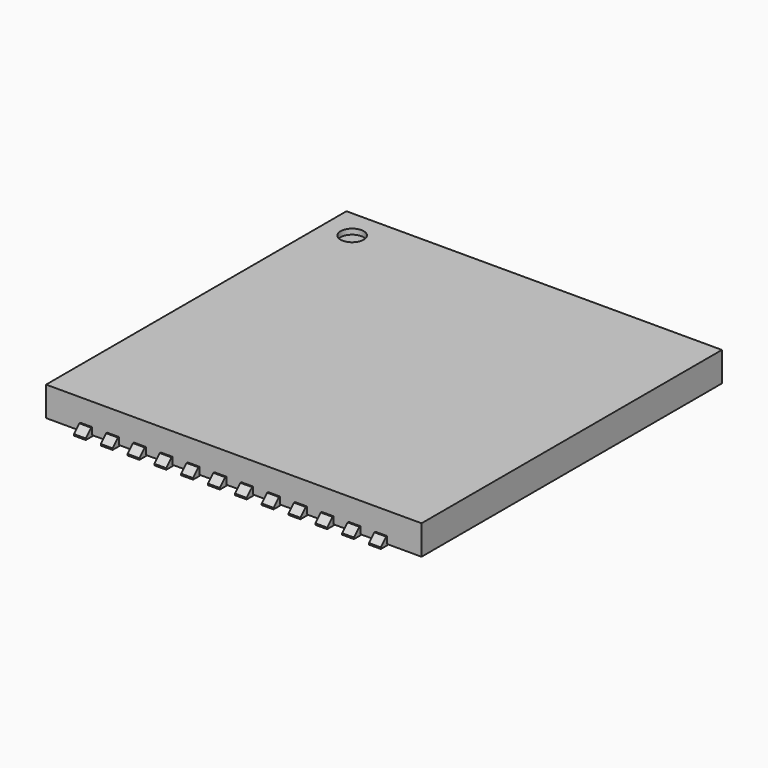
from build123d import *

# Parameters (mm, degrees)
SKETCH_W                = 7
SKETCH_H                = 7
PAD_DEPTH               = 0.55
SKETCH001_R             = 0.216067
POCKET_DEPTH            = 0.1
PAD001_DEPTH            = 0.11
ARRAY_Y_COUNT           = 12
ARRAY_Y_PITCH           = 0.5
BODY002_PLACEMENT_ANGLE = 90


with BuildPart() as body:
    # Sketch → Pad (new body)
    with BuildSketch(Plane.XY):
        Rectangle(SKETCH_W, SKETCH_H)
    extrude(amount=PAD_DEPTH)

    # Sketch001 (on Face6 of Pad) → Pocket (cut)
    with BuildSketch(Plane.XY.offset(0.55)):
        with Locations((-2.958234, 2.955425)):
            Circle(SKETCH001_R)
    extrude(amount=-POCKET_DEPTH, mode=Mode.SUBTRACT)


with BuildPart() as body_1:
    # Body placement: moved
    add(body.part.moved(Location((0, 0, 0.02))))


with BuildPart() as body002:
    # Sketch002 → Pad001 (new body, symmetric)
    with BuildSketch(Plane.XZ):
        Polygon((-3.65, 0), (-3.65, 0.027), (-3.525, 0.152), (3.525, 0.152), (3.65, 0.027), (3.65, 0), (3.1, 0), (3.1, 0.08), (-3.1, 0.08), (-3.1, 0), align=None)
    extrude(amount=PAD001_DEPTH, both=True)


with BuildPart() as body002_1:
    # Body001 placement: moved
    add(body002.part.moved(Location((0, -2.75, 0))))

    # Array Y: Body002 ×12


with BuildPart() as body002_2:
    add(body002_1.part)
    with Locations(*[(0, i * ARRAY_Y_PITCH, 0) for i in range(1, ARRAY_Y_COUNT)]):
        add(body002_1.part)


with BuildPart() as body002_3:
    # Body002 placement: moved
    add(body002_2.part.rotate(Axis((0, 0, 0), (0, 0, -1)), BODY002_PLACEMENT_ANGLE))


solid = Compound([body_1.part, body002_3.part])
